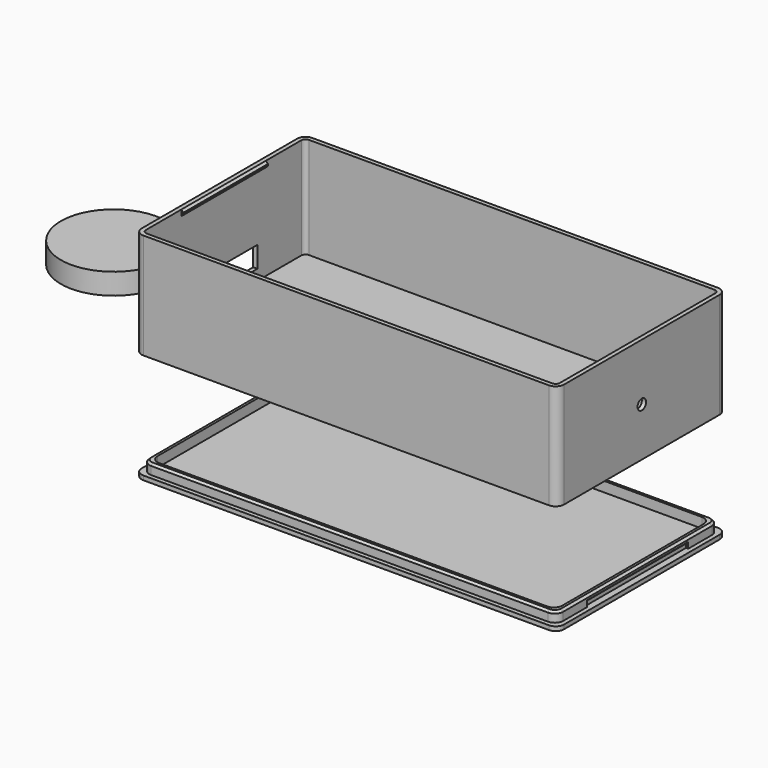
from build123d import *

# Parameters (mm, degrees)
PAD_DEPTH               = 50
THICKNESS_T             = -2
PAD005_DEPTH            = 25
SKETCH009_R             = 2.5
POCKET001_DEPTH         = 2
SKETCH010_W             = 40
SKETCH010_H             = 10
POCKET002_DEPTH         = 2
SKETCH001_R             = 25
PAD001_DEPTH            = 10
PAD003_DEPTH            = 2
PAD006_DEPTH            = 4.8
POCKET_DEPTH            = 30
CHAMFER_SIZE            = 1
BODY004_PLACEMENT_ANGLE = 180


with BuildPart() as boxbottombody:
    # Sketch → Pad (new body)
    with BuildSketch(Plane.XY):
        with BuildLine():
            Line((-96, 50), (96, 50))
            ThreePointArc((100, 46), (98.828427, 48.828427), (96, 50))
            Line((100, 46), (100, -46))
            ThreePointArc((96, -50), (98.828427, -48.828427), (100, -46))
            Line((96, -50), (-96, -50))
            ThreePointArc((-100, -46), (-98.828427, -48.828427), (-96, -50))
            Line((-100, -46), (-100, 46))
            ThreePointArc((-96, 50), (-98.828427, 48.828427), (-100, 46))
        make_face()
    extrude(amount=PAD_DEPTH)

    # Thickness
    thickness_openings = [boxbottombody.faces().sort_by_distance(p)[0] for p in [
        (0, 0, 50),
    ]]
    offset(amount=THICKNESS_T, openings=thickness_openings, kind=Kind.INTERSECTION)

    # Sketch006 (on DatumPlane) → Pad005 (join, symmetric)
    with BuildSketch(Plane(origin=(-98, 0, 50), x_dir=(-1, 0, 0), z_dir=(0, 1, 0))):
        Polygon((0, 0), (-1, -1), (-1, -1.8), (0, -2.8), align=None)
    pad005 = extrude(amount=PAD005_DEPTH, both=True)

    # Mirrored: Pad005 across YZ
    add(pad005.mirror(Plane.YZ))

    # Sketch009 (on DatumPlane) → Pocket001 (cut)
    with BuildSketch(Plane.YZ.offset(100)):
        with Locations((0, 23)):
            Circle(SKETCH009_R)
    extrude(amount=-POCKET001_DEPTH, mode=Mode.SUBTRACT)

    # Sketch010 (on DatumPlane) → Pocket002 (cut)
    with BuildSketch(Plane.YZ.offset(-100)):
        with Locations((0, 12)):
            Rectangle(SKETCH010_W, SKETCH010_H)
    extrude(amount=POCKET002_DEPTH, mode=Mode.SUBTRACT)


with BuildPart() as obj1:
    # Sketch001 → Pad001 (new body)
    with BuildSketch(Plane.XY):
        with Locations((-150, 0)):
            Circle(SKETCH001_R)
    extrude(amount=PAD001_DEPTH)


with BuildPart() as covercloneflippedbody:
    # Sketch004 (on DatumPlane) → Pad003 (new body)
    with BuildSketch(Plane.XY.offset(50)):
        with BuildLine():
            Line((-96, 50), (96, 50))
            ThreePointArc((100, 46), (98.828427, 48.828427), (96, 50))
            Line((100, 46), (100, -46))
            ThreePointArc((96, -50), (98.828427, -48.828427), (100, -46))
            Line((96, -50), (-96, -50))
            ThreePointArc((-100, -46), (-98.828427, -48.828427), (-96, -50))
            Line((-100, -46), (-100, 46))
            ThreePointArc((-96, 50), (-98.828427, 48.828427), (-100, 46))
        make_face()
    extrude(amount=PAD003_DEPTH)

    # Sketch007 (on DatumPlane) → Pad006 (join)
    with BuildSketch(Plane.XY.offset(50)):
        with BuildLine():
            Line((-93.95, 47.95), (93.95, 47.95))
            ThreePointArc((97.95, 43.95), (96.778427, 46.778427), (93.95, 47.95))
            Line((97.95, 43.95), (97.95, -43.95))
            ThreePointArc((93.95, -47.95), (96.778427, -46.778427), (97.95, -43.95))
            Line((93.95, -47.95), (-93.95, -47.95))
            ThreePointArc((-97.95, -43.95), (-96.778427, -46.778427), (-93.95, -47.95))
            Line((-97.95, -43.95), (-97.95, 43.95))
            ThreePointArc((-93.95, 47.95), (-96.778427, 46.778427), (-97.95, 43.95))
        make_face()
        with BuildLine():
            Line((-91.8, 45.8), (91.8, 45.8))
            ThreePointArc((95.8, 41.8), (94.628427, 44.628427), (91.8, 45.8))
            Line((95.8, 41.8), (95.8, -41.8))
            ThreePointArc((91.8, -45.8), (94.628427, -44.628427), (95.8, -41.8))
            Line((91.8, -45.8), (-91.8, -45.8))
            ThreePointArc((-95.8, -41.8), (-94.628427, -44.628427), (-91.8, -45.8))
            Line((-95.8, -41.8), (-95.8, 41.8))
            ThreePointArc((-91.8, 45.8), (-94.628427, 44.628427), (-95.8, 41.8))
        make_face(mode=Mode.SUBTRACT)
    extrude(amount=-PAD006_DEPTH)

    # Sketch008 (on DatumPlane) → Pocket (cut, symmetric)
    with BuildSketch(Plane(origin=(-98, 0, 50), x_dir=(-1, 0, 0), z_dir=(0, 1, 0))):
        Polygon((-1.1, 0), (-0.05, 0), (-0.05, -2.85), (-1.1, -1.8), align=None)
    pocket = extrude(amount=POCKET_DEPTH, both=True, mode=Mode.SUBTRACT)

    # Mirrored001: Pocket across YZ
    add(pocket.mirror(Plane.YZ), mode=Mode.SUBTRACT)

    # Chamfer
    chamfer_edges = [covercloneflippedbody.edges().sort_by_distance(p)[0] for p in [
        (-97.95, 0, 45.2),
    ]]
    chamfer(chamfer_edges, length=CHAMFER_SIZE)


with BuildPart() as covercloneflippedbody_1:
    # Body004 placement: moved
    add(covercloneflippedbody.part.rotate(Axis((0, 0, 0), (1, 0, 0)), BODY004_PLACEMENT_ANGLE))


solid = Compound([boxbottombody.part, obj1.part, covercloneflippedbody_1.part])
